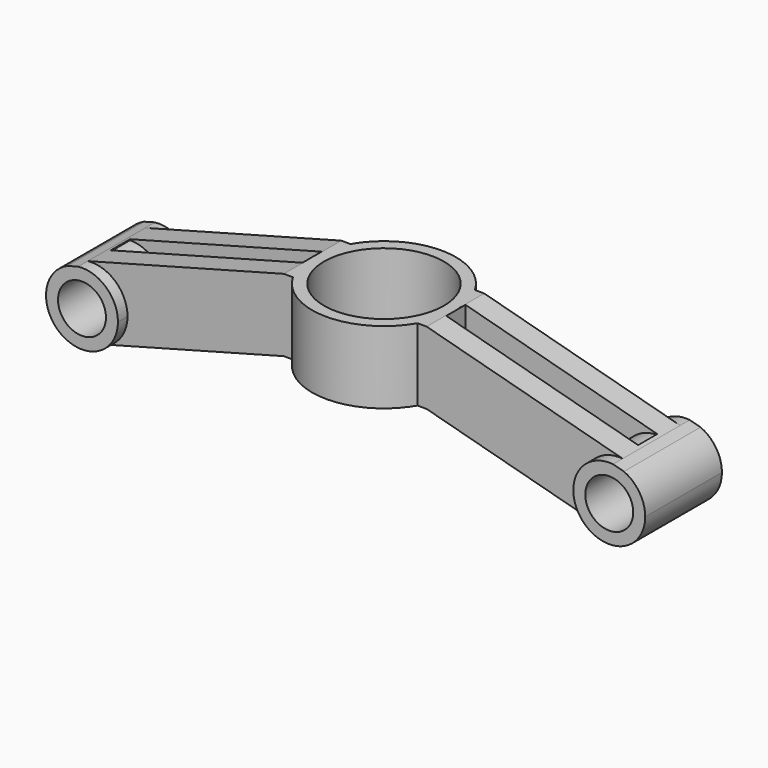
from build123d import *

# Parameters (mm, degrees)
F1_DEPTH = 15
F0_R     = 10
F2_DEPTH = 20
F3_R     = 30
F3_R_2   = 25
F4_DEPTH = 30.243643
F5_DEPTH = 51.82786
F7_W     = 79.926214
F7_H     = 10
F7_W_2   = 80.073786
F8_DEPTH = 61.82786
F9_DEPTH = 5


with BuildPart() as f1:
    # F0 (on Front) → F1 (new body, symmetric)
    with BuildSketch(Plane.XZ):
        with BuildLine():
            ThreePointArc((-95, 0), (-96.92529, -7.352004), (-102.206927, -12.816709))
            Line((-102.206927, -12.816709), (-29.805417, 6.583218))
            Line((-29.805417, 6.583218), (-29.805417, 36.82686))
            Line((-29.805417, 36.82686), (-111.573049, 14.917289))
            ThreePointArc((-111.573049, 14.917289), (-99.964955, 11.148895), (-95, 0))
        make_face()
        Polygon((-29.805417, 36.82686), (-29.805417, 6.583218), (0, 6.583218), (29.805417, 6.583218), (29.805417, 36.82686), (0, 36.82686), align=None)
        with BuildLine():
            Line((29.805417, 36.82686), (29.805417, 6.583218))
            Line((29.805417, 6.583218), (102.206927, -12.816709))
            ThreePointArc((102.206927, -12.816709), (95.788532, 4.799393), (111.573049, 14.917289))
            Line((111.573049, 14.917289), (29.805417, 36.82686))
        make_face()
    extrude(amount=F1_DEPTH, both=True)

    # F0 (on Front) → F2 (join, symmetric)
    with BuildSketch(Plane.XZ):
        with BuildLine():
            Line((-111.573049, 14.917289), (-116.096344, 13.705276))
            ThreePointArc((-116.096344, 13.705276), (-123.288101, -6.958905), (-102.206927, -12.816709))
            ThreePointArc((-102.206927, -12.816709), (-96.92529, -7.352004), (-95, 0))
            ThreePointArc((-95, 0), (-99.964955, 11.148895), (-111.573049, 14.917289))
        make_face()
        with Locations((-110, 0)):
            Circle(F0_R, mode=Mode.SUBTRACT)
        with BuildLine():
            ThreePointArc((111.573049, 14.917289), (95.788532, 4.799393), (102.206927, -12.816709))
            ThreePointArc((102.206927, -12.816709), (117.352004, -13.07471), (125, 0))
            ThreePointArc((125, 0), (122.578656, 8.171745), (116.096344, 13.705276))
            Line((116.096344, 13.705276), (111.573049, 14.917289))
        make_face()
        with Locations((110, 0)):
            Circle(F0_R, mode=Mode.SUBTRACT)
    extrude(amount=F2_DEPTH, both=True)

    # F3 (on face) → F4 (join, through all)
    with BuildSketch(Plane.XY.offset(36.82686)):
        Circle(F3_R)
        Circle(F3_R_2, mode=Mode.SUBTRACT)
    extrude(amount=-F4_DEPTH)

    # F3 (on face) → F5 (cut, through all)
    with BuildSketch(Plane.XY.offset(36.82686)):
        with BuildLine():
            ThreePointArc((25, 0), (23.717082, 7.905694), (20, 15))
            Line((20, 15), (-20, 15))
            ThreePointArc((-20, 15), (-25, 0), (-20, -15))
            Line((-20, -15), (20, -15))
            ThreePointArc((20, -15), (23.717082, -7.905694), (25, 0))
        make_face()
    extrude(amount=-F5_DEPTH, mode=Mode.SUBTRACT)

    # F7 (on offset) → F8 (cut, through all)
    with BuildSketch(Plane.XY.offset(-25)):
        with Locations((-69.963107, 0)):
            Rectangle(F7_W, F7_H)
        with Locations((70.036893, 0)):
            Rectangle(F7_W_2, F7_H)
    extrude(amount=F8_DEPTH, mode=Mode.SUBTRACT)

    # F0 (on Front) → F9 (join, symmetric)
    with BuildSketch(Plane.XZ):
        with BuildLine():
            Line((-111.573049, 14.917289), (-116.096344, 13.705276))
            ThreePointArc((-116.096344, 13.705276), (-123.288101, -6.958905), (-102.206927, -12.816709))
            ThreePointArc((-102.206927, -12.816709), (-96.92529, -7.352004), (-95, 0))
            ThreePointArc((-95, 0), (-99.964955, 11.148895), (-111.573049, 14.917289))
        make_face()
        with Locations((-110, 0)):
            Circle(F0_R, mode=Mode.SUBTRACT)
        with BuildLine():
            ThreePointArc((111.573049, 14.917289), (95.788532, 4.799393), (102.206927, -12.816709))
            ThreePointArc((102.206927, -12.816709), (117.352004, -13.07471), (125, 0))
            ThreePointArc((125, 0), (122.578656, 8.171745), (116.096344, 13.705276))
            Line((116.096344, 13.705276), (111.573049, 14.917289))
        make_face()
        with Locations((110, 0)):
            Circle(F0_R, mode=Mode.SUBTRACT)
    extrude(amount=F9_DEPTH, both=True)


solid = f1.part
